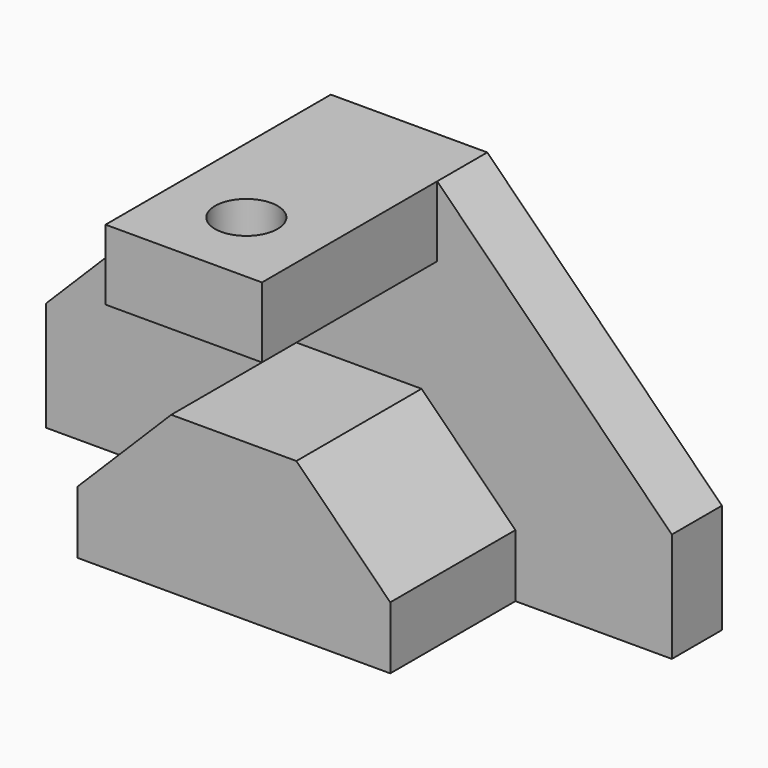
from build123d import *

# Parameters (mm, degrees)
F1_DEPTH = 12.7
F2_DEPTH = 44.45
F3_W     = 31.75
F3_H     = 14.2875
F4_DEPTH = 44.45
F5_R     = 6.35
F6_DEPTH = 25.4


with BuildPart() as f1:
    # F0 (on Front) → F1 (new body)
    with BuildSketch(Plane.XZ):
        Polygon((30.037765, -41.944019), (61.787765, -41.944019), (61.787765, -19.719019), (14.162765, 27.905981), (-17.587235, 27.905981), (-65.212235, -19.719019), (-65.212235, -41.944019), (-33.462235, -41.944019), (-33.462235, -29.244019), (-14.412235, -10.194019), (-1.712235, -10.194019), (10.987765, -10.194019), (30.037765, -29.244019), align=None)
    extrude(amount=F1_DEPTH)

    # F0 (on Front) → F2 (join)
    with BuildSketch(Plane.XZ):
        Polygon((-33.462235, -41.944019), (30.037765, -41.944019), (30.037765, -29.244019), (10.987765, -10.194019), (-1.712235, -10.194019), (-14.412235, -10.194019), (-33.462235, -29.244019), align=None)
    extrude(amount=F2_DEPTH)

    # F3 (on face) → F4 (join)
    with BuildSketch(Plane.XZ.offset(12.7)):
        with Locations((-1.712235, 20.762231)):
            Rectangle(F3_W, F3_H)
    extrude(amount=F4_DEPTH)

    # F5 (on face) → F6 (cut)
    with BuildSketch(Plane.XY.offset(27.905981)):
        with Locations((-1.712235, -41.275)):
            Circle(F5_R)
    extrude(amount=-F6_DEPTH, mode=Mode.SUBTRACT)


solid = f1.part
